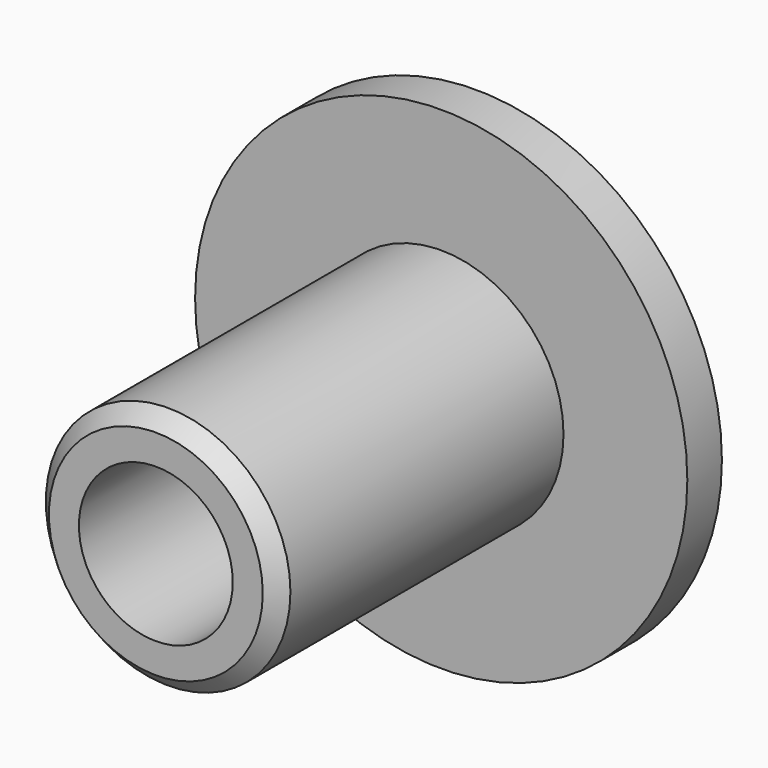
from build123d import *

# Parameters (mm, degrees)
F0_R     = 7.95
F0_R_2   = 5
F1_DEPTH = 26
F0_R_3   = 16
F2_DEPTH = 2.81
F3_SIZE  = 1


with BuildPart() as f1:
    # F0 (on Front) → F1 (new body)
    with BuildSketch(Plane.XZ):
        Circle(F0_R)
        Circle(F0_R_2, mode=Mode.SUBTRACT)
    extrude(amount=F1_DEPTH)

    # F0 (on Front) → F2 (join)
    with BuildSketch(Plane.XZ):
        Circle(F0_R_3)
        Circle(F0_R, mode=Mode.SUBTRACT)
    extrude(amount=F2_DEPTH)

    # F3
    f3_edges = [f1.edges().sort_by_distance(p)[0] for p in [
        (-7.95, -26, 0),
    ]]
    chamfer(f3_edges, length=F3_SIZE)


solid = f1.part
